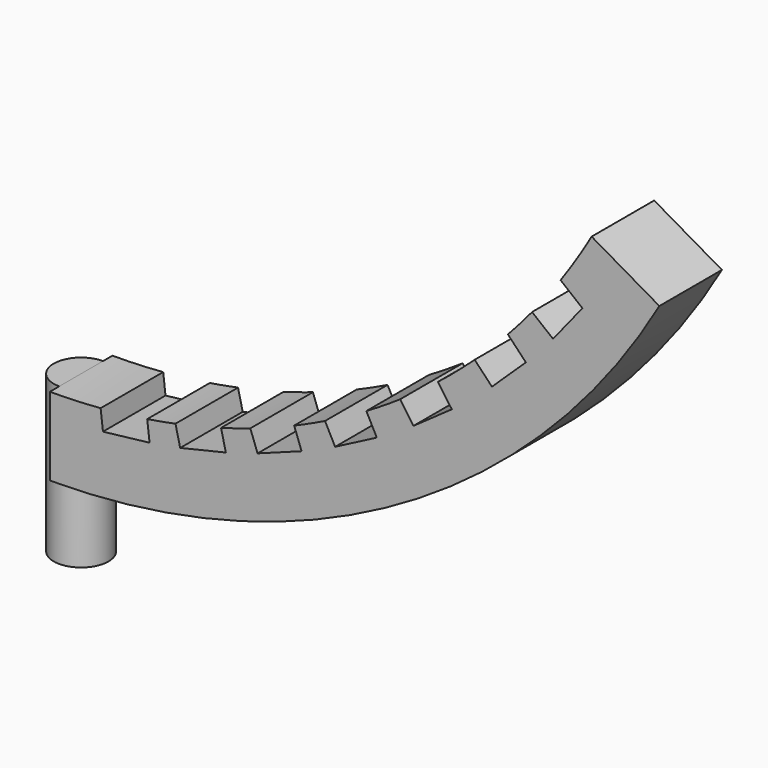
from build123d import *

# Parameters (mm, degrees)
SKETCH001_R                = 3.5
EXTRUDE001_DEPTH           = 10
SKETCH012_W                = 6
SKETCH012_H                = 10
EXTRUDE013_DEPTH           = 2.5
EXTRUDE013_PLACEMENT_ANGLE = 51.18
SKETCH011_W                = 6
SKETCH011_H                = 10
EXTRUDE012_DEPTH           = 2.5
EXTRUDE012_PLACEMENT_ANGLE = 43.68
SKETCH010_W                = 6
SKETCH010_H                = 10
EXTRUDE011_DEPTH           = 2.5
EXTRUDE011_PLACEMENT_ANGLE = 35.16
SKETCH009_W                = 6
SKETCH009_H                = 10
EXTRUDE010_DEPTH           = 2.5
EXTRUDE010_PLACEMENT_ANGLE = 27.42
SKETCH008_W                = 6
SKETCH008_H                = 10
EXTRUDE009_DEPTH           = 2.5
EXTRUDE009_PLACEMENT_ANGLE = 20.22
SKETCH007_W                = 6
SKETCH007_H                = 10
EXTRUDE008_DEPTH           = 2.5
EXTRUDE008_PLACEMENT_ANGLE = 13.32
SKETCH005_W                = 6
SKETCH005_H                = 10
EXTRUDE006_DEPTH           = 2.5
EXTRUDE006_PLACEMENT_ANGLE = 6.6
EXTRUDE002_DEPTH           = 5


with BuildPart() as extrude001:
    # Sketch001 → Extrude001 (new body, symmetric)
    with BuildSketch(Plane.XY):
        Circle(SKETCH001_R)
    extrude(amount=EXTRUDE001_DEPTH, both=True)


with BuildPart() as extrude013:
    # Sketch012 → Extrude013 (new body, symmetric)
    with BuildSketch(Plane.XY):
        Rectangle(SKETCH012_W, SKETCH012_H)
    extrude(amount=EXTRUDE013_DEPTH, both=True)


with BuildPart() as extrude013_1:
    # Extrude013 placement: moved
    add(extrude013.part.moved(Location((64.277333, 0, 40.782745))).rotate(Axis((64.277333, 0, 40.782745), (0, -1, 0)), EXTRUDE013_PLACEMENT_ANGLE))


with BuildPart() as extrude012:
    # Sketch011 → Extrude012 (new body, symmetric)
    with BuildSketch(Plane.XY):
        Rectangle(SKETCH011_W, SKETCH011_H)
    extrude(amount=EXTRUDE012_DEPTH, both=True)


with BuildPart() as extrude012_1:
    # Extrude012 placement: moved
    add(extrude012.part.moved(Location((56.976975, 0, 32.835318))).rotate(Axis((56.976975, 0, 32.835318), (0, -1, 0)), EXTRUDE012_PLACEMENT_ANGLE))


with BuildPart() as extrude011:
    # Sketch010 → Extrude011 (new body, symmetric)
    with BuildSketch(Plane.XY):
        Rectangle(SKETCH010_W, SKETCH010_H)
    extrude(amount=EXTRUDE011_DEPTH, both=True)


with BuildPart() as extrude011_1:
    # Extrude011 placement: moved
    add(extrude011.part.moved(Location((47.50859, 0, 25.052362))).rotate(Axis((47.50859, 0, 25.052362), (0, -1, 0)), EXTRUDE011_PLACEMENT_ANGLE))


with BuildPart() as extrude010:
    # Sketch009 → Extrude010 (new body, symmetric)
    with BuildSketch(Plane.XY):
        Rectangle(SKETCH009_W, SKETCH009_H)
    extrude(amount=EXTRUDE010_DEPTH, both=True)


with BuildPart() as extrude010_1:
    # Extrude010 placement: moved
    add(extrude010.part.moved(Location((37.992047, 0, 19.268488))).rotate(Axis((37.992047, 0, 19.268488), (0, -1, 0)), EXTRUDE010_PLACEMENT_ANGLE))


with BuildPart() as extrude009:
    # Sketch008 → Extrude009 (new body, symmetric)
    with BuildSketch(Plane.XY):
        Rectangle(SKETCH008_W, SKETCH008_H)
    extrude(amount=EXTRUDE009_DEPTH, both=True)


with BuildPart() as extrude009_1:
    # Extrude009 placement: moved
    add(extrude009.part.moved(Location((28.514126, 0, 15.084274))).rotate(Axis((28.514126, 0, 15.084274), (0, -1, 0)), EXTRUDE009_PLACEMENT_ANGLE))


with BuildPart() as extrude008:
    # Sketch007 → Extrude008 (new body, symmetric)
    with BuildSketch(Plane.XY):
        Rectangle(SKETCH007_W, SKETCH007_H)
    extrude(amount=EXTRUDE008_DEPTH, both=True)


with BuildPart() as extrude008_1:
    # Extrude008 placement: moved
    add(extrude008.part.moved(Location((19.007128, 0, 12.219373))).rotate(Axis((19.007128, 0, 12.219373), (0, -1, 0)), EXTRUDE008_PLACEMENT_ANGLE))


with BuildPart() as extrude006:
    # Sketch005 → Extrude006 (new body, symmetric)
    with BuildSketch(Plane.XY):
        Rectangle(SKETCH005_W, SKETCH005_H)
    extrude(amount=EXTRUDE006_DEPTH, both=True)


with BuildPart() as extrude006_1:
    # Extrude006 placement: moved
    add(extrude006.part.moved(Location((9.482315, 0, 10.546747))).rotate(Axis((9.482315, 0, 10.546747), (0, -1, 0)), EXTRUDE006_PLACEMENT_ANGLE))


with BuildPart() as fusion:
    # Sketch002 → Extrude002 (new body, symmetric)
    with BuildSketch(Plane.XZ):
        with BuildLine():
            ThreePointArc((0, 0), (45.00001, 12.057678), (77.942322, 44.999938))
            Line((69.282072, 49.999945), (77.942322, 44.999938))
            ThreePointArc((0, 10), (40.000013, 20.717934), (69.282072, 49.999945))
            Line((0, 10), (0, 0))
        make_face()
    extrude(amount=EXTRUDE002_DEPTH, both=True)

    # Cut: cut Extrude006
    add(extrude006_1.part, mode=Mode.SUBTRACT)

    # Cut001: cut Extrude008
    add(extrude008_1.part, mode=Mode.SUBTRACT)

    # Cut002: cut Extrude009
    add(extrude009_1.part, mode=Mode.SUBTRACT)

    # Cut003: cut Extrude010
    add(extrude010_1.part, mode=Mode.SUBTRACT)

    # Cut004: cut Extrude011
    add(extrude011_1.part, mode=Mode.SUBTRACT)

    # Cut005: cut Extrude012
    add(extrude012_1.part, mode=Mode.SUBTRACT)

    # Cut006: cut Extrude013
    add(extrude013_1.part, mode=Mode.SUBTRACT)

    # Fusion: union Extrude001
    add(extrude001.part)


with BuildPart() as fusion_1:
    # Fusion placement: moved
    add(fusion.part.moved(Location((0, 6, 0))))


solid = fusion_1.part
